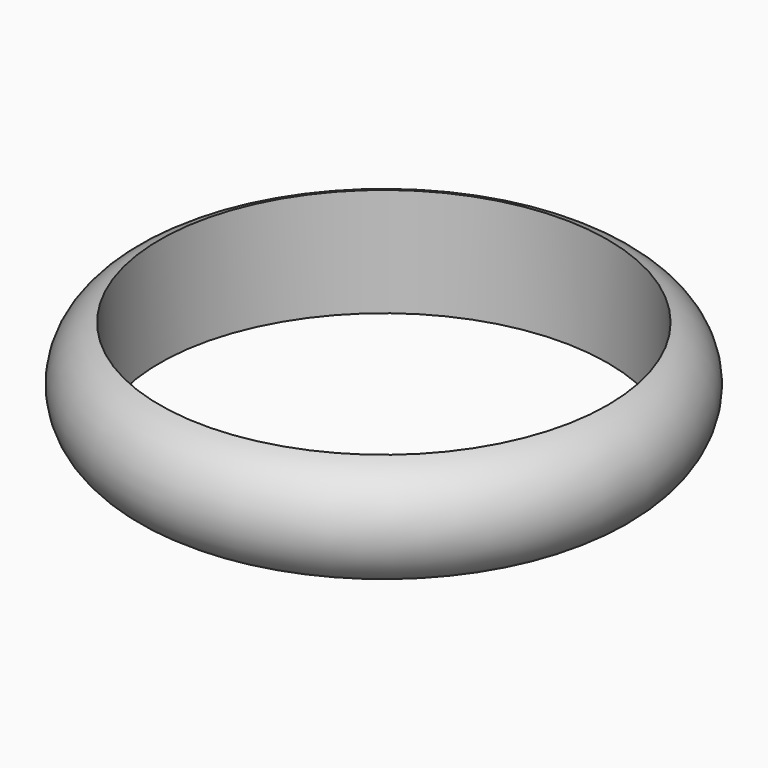
from build123d import *

# Parameters (mm, degrees)
F1_R          = 43.35824
F3_R          = 171.18766
F4_DEPTH      = 439.928
F4_DEPTH_BACK = 259.08


with BuildPart() as f2:
    # F2: sweep along a path in F0
    with BuildLine(Plane.XY) as f2_path:
        CenterArc((0, 0), 206.660087, 0, 360)
    # F1 (on Right) → F2 (sweep)
    with BuildSketch(Plane.YZ):
        with Locations((-158.525333, 0)):
            Circle(F1_R)
    sweep(path=f2_path.line)

    # F3 (on Top) → F4 (cut, two sides)
    with BuildSketch(Plane.XY) as f4_sk:
        Circle(F3_R)
    extrude(amount=F4_DEPTH, mode=Mode.SUBTRACT)
    extrude(f4_sk.sketch, amount=-F4_DEPTH_BACK, mode=Mode.SUBTRACT)


solid = f2.part
